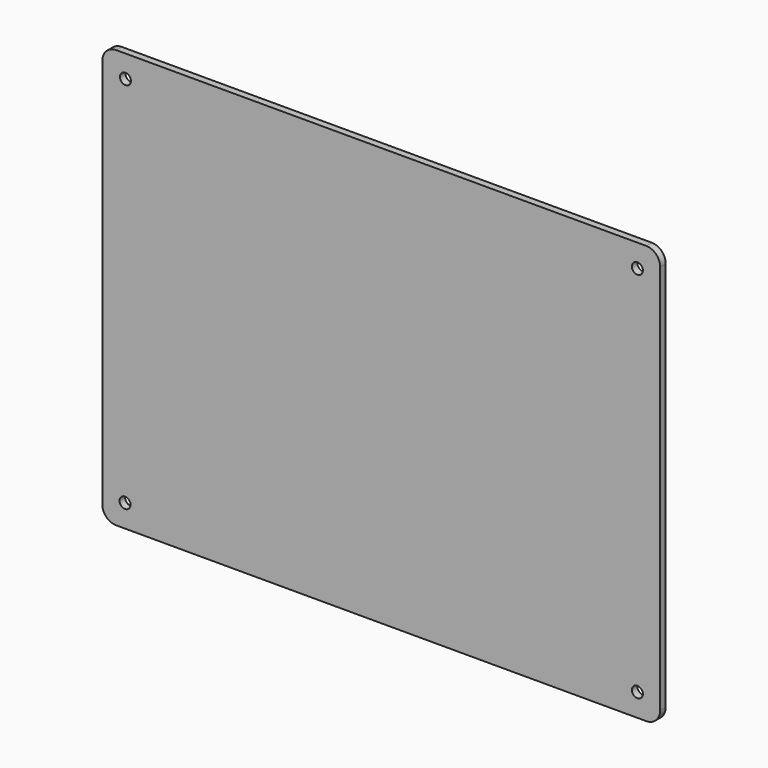
from build123d import *

# Parameters (mm, degrees)
F0_W     = 203.2
F0_H     = 152.4
F1_DEPTH = 2.54
F2_R     = 5.08
F4_D     = 4


with BuildPart() as f1:
    # F0 (on Front) → F1 (new body)
    with BuildSketch(Plane.XZ):
        with Locations((101.6, 76.2)):
            Rectangle(F0_W, F0_H)
    extrude(amount=F1_DEPTH)

    # F2
    f2_edges = [f1.edges().sort_by_distance(p)[0] for p in [
        (0, -1.27, 152.4),
        (0, -1.27, 0),
        (203.2, -1.27, 0),
        (203.2, -1.27, 152.4),
    ]]
    fillet(f2_edges, radius=F2_R)

    # F4 (through all)
    with Locations(Plane.XZ.offset(2.54)):
        with Locations((8.438129, 144.260885), (194.909735, 144.109735), (194.909735, 8.290265), (8.290265, 8.290265)):
            Hole(F4_D / 2)


solid = f1.part
